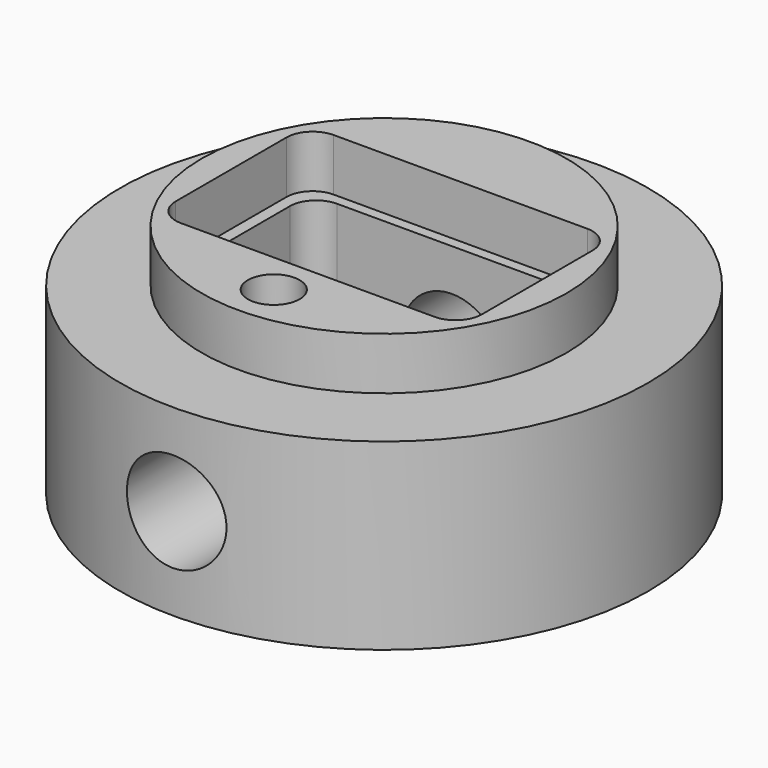
from build123d import *

# Parameters (mm, degrees)
SKETCH_R             = 20.14583
PAD_DEPTH            = 14
SKETCH001_R          = 13.924934
PAD001_DEPTH         = 4
POCKET_DEPTH         = 4
POCKET001_DEPTH      = 18.001
SKETCH004_R          = 3.798047
POCKET002_DEPTH      = 20.14683
POCKET002_DEPTH_BACK = -20.14683
SKETCH005_R          = 1.975009
POCKET003_DEPTH      = 9


with BuildPart() as part:
    # Sketch → Pad (new body)
    with BuildSketch(Plane.XY):
        Circle(SKETCH_R)
    extrude(amount=PAD_DEPTH)

    # Sketch001 (on Face3 of Pad) → Pad001 (join)
    with BuildSketch(Plane.XY.offset(14)):
        Circle(SKETCH001_R)
    extrude(amount=PAD001_DEPTH)

    # Sketch002 (on Face5 of Pad001) → Pocket (cut)
    with BuildSketch(Plane.XY.offset(18)):
        with BuildLine():
            Line((-11.678625, 5.283784), (-11.678625, -5.283784))
            ThreePointArc((-11.678625, -5.283784), (-11.092839, -6.697998), (-9.678625, -7.283784))
            Line((-9.678625, -7.283784), (9.678625, -7.283784))
            ThreePointArc((9.678625, -7.283784), (11.092839, -6.697998), (11.678625, -5.283784))
            Line((11.678625, -5.283784), (11.678625, 5.283784))
            ThreePointArc((11.678625, 5.283784), (11.092839, 6.697998), (9.678625, 7.283784))
            Line((9.678625, 7.283784), (-9.678625, 7.283784))
            ThreePointArc((-9.678625, 7.283784), (-11.092839, 6.697998), (-11.678625, 5.283784))
        make_face()
    extrude(amount=-POCKET_DEPTH, mode=Mode.SUBTRACT)

    # Sketch003 (on Face5 of Pad001) → Pocket001 (cut, through all)
    with BuildSketch(Plane.XY.offset(18)):
        with BuildLine():
            Line((-10.778705, 4.482331), (-10.778705, -4.482331))
            ThreePointArc((-10.778705, -4.482331), (-10.192919, -5.896545), (-8.778705, -6.482331))
            Line((-8.778705, -6.482331), (8.778705, -6.482331))
            ThreePointArc((8.778705, -6.482331), (10.192919, -5.896545), (10.778705, -4.482331))
            Line((10.778705, -4.482331), (10.778705, 4.482331))
            ThreePointArc((10.778705, 4.482331), (10.192919, 5.896545), (8.778705, 6.482331))
            Line((8.778705, 6.482331), (-8.778705, 6.482331))
            ThreePointArc((-8.778705, 6.482331), (-10.192919, 5.896545), (-10.778705, 4.482331))
        make_face()
    extrude(amount=-POCKET001_DEPTH, mode=Mode.SUBTRACT)

    # Sketch004 (on DatumPlane) → Pocket002 (cut, two sides)
    with BuildSketch(Plane(origin=(0, 0, 7), x_dir=(1, 0, 0), z_dir=(0, -1, 0))) as pocket002_sk:
        Circle(SKETCH004_R)
    extrude(amount=-POCKET002_DEPTH, mode=Mode.SUBTRACT)
    extrude(pocket002_sk.sketch, amount=-POCKET002_DEPTH_BACK, mode=Mode.SUBTRACT)

    # Sketch005 (on Face16 of Pocket002) → Pocket003 (cut)
    with BuildSketch(Plane.XY.offset(18)):
        with Locations((0, -10.527462)):
            Circle(SKETCH005_R)
    extrude(amount=-POCKET003_DEPTH, mode=Mode.SUBTRACT)


solid = part.part
